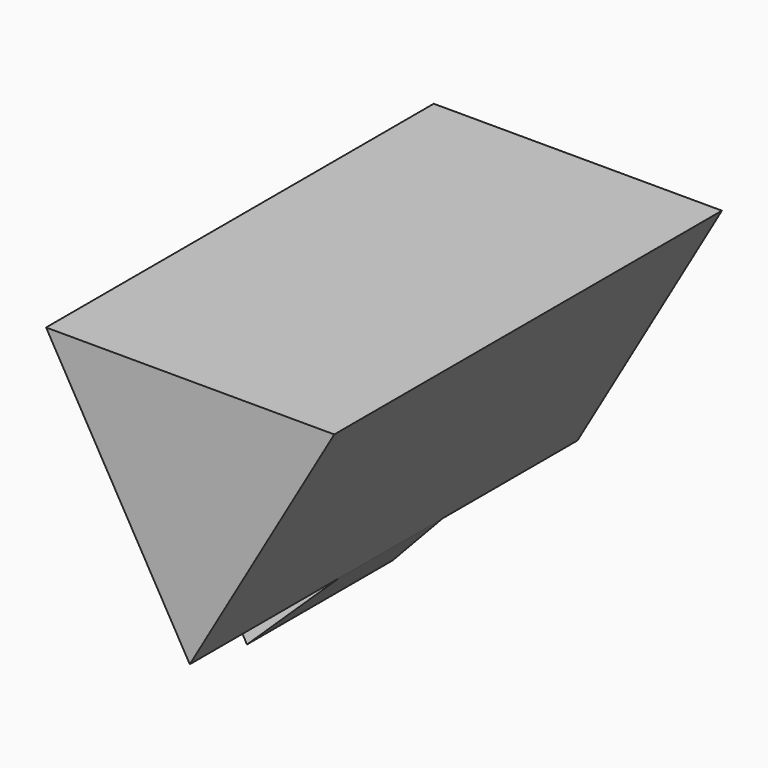
from build123d import *

# Parameters (mm, degrees)
F1_DEPTH = 254
F2_W     = 68.1403651834
F2_H     = 124.5979337706
F3_DEPTH = 50.8
F3_TAPER = -15


with BuildPart() as f1:
    # F0 (on Front) → F1 (new body)
    with BuildSketch(Plane.XZ):
        Polygon((-0.1336607501, -87.2124684732), (75.5950435996, 43.4904806316), (-75.4613828496, 43.7219878417), align=None)
    extrude(amount=F1_DEPTH)

    # F2 (on face) → F3 (join)
    with BuildSketch(Plane(origin=(-37.7975217998, 0, -21.7452403158), x_dir=(0, -1, 0), z_dir=(-0.8667906796, 0, -0.4986721545))):
        with Locations((122.2858987749, -13.2293350405)):
            Rectangle(F2_W, F2_H)
    extrude(amount=F3_DEPTH, taper=F3_TAPER)


solid = f1.part
